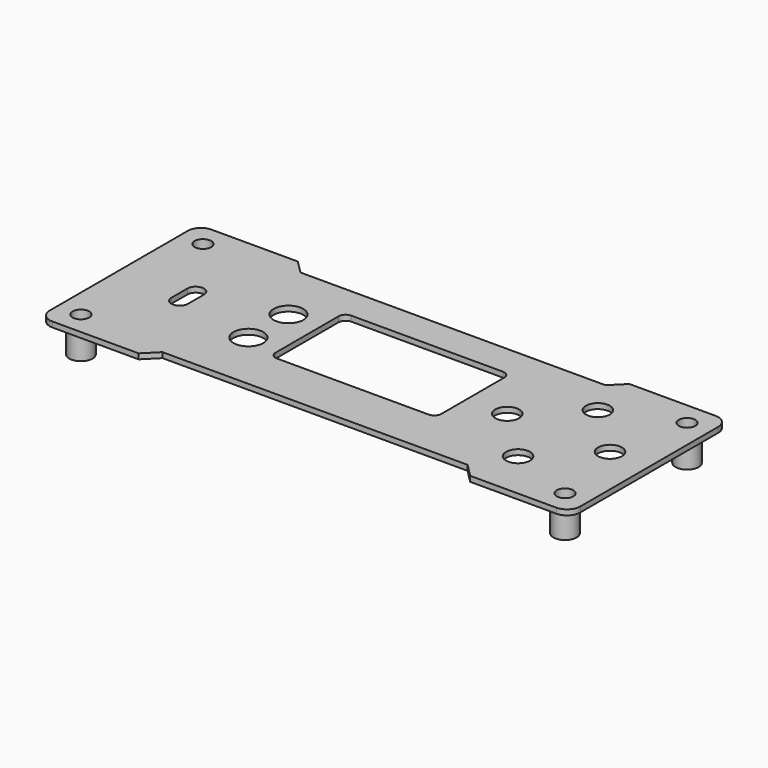
from build123d import *

# Parameters (mm, degrees)
PAD_DEPTH       = 0.8
POCKET_DEPTH    = 0.801
POCKET001_DEPTH = 0.801
SKETCH002_R     = 2.25
POCKET002_DEPTH = 0.801
SKETCH003_R     = 1.8
POCKET003_DEPTH = 0.801
SKETCH004_R     = 1.75
PAD001_DEPTH    = 4.5
SKETCH005_R     = 1.25
POCKET004_DEPTH = 5.301


with BuildPart() as part:
    # PCB_Sketch_76c7 → Pad (new body)
    with BuildSketch(Plane.XY):
        with BuildLine():
            Line((80, 28), (80, 2))
            ThreePointArc((80, 2), (79.414214, 0.585786), (78, 0))
            Line((78, 0), (65, 0))
            Line((65, 0), (63, 2))
            Line((63, 2), (17, 2))
            Line((17, 2), (15, 0))
            Line((15, 0), (2, 0))
            ThreePointArc((2, 0), (0.585786, 0.585786), (0, 2))
            Line((0, 2), (0, 28))
            ThreePointArc((0, 28), (0.585786, 29.414214), (2, 30))
            Line((2, 30), (15, 30))
            Line((17, 28), (15, 30))
            Line((63, 28), (17, 28))
            Line((63, 28), (65, 30))
            Line((65, 30), (78, 30))
            ThreePointArc((78, 30), (79.414214, 29.414214), (80, 28))
        make_face()
    extrude(amount=PAD_DEPTH)

    # Sketch (on Face18 of Pad) → Pocket (cut, through all)
    with BuildSketch(Plane.XY.offset(0.8)):
        with BuildLine():
            ThreePointArc((28.54066, 23.15), (27.79066, 22.83934), (27.48, 22.08934))
            Line((27.48, 10.21066), (27.48, 22.08934))
            ThreePointArc((27.48, 10.21066), (27.79066, 9.46066), (28.54066, 9.15))
            Line((51.41934, 9.15), (28.54066, 9.15))
            ThreePointArc((51.41934, 9.15), (52.16934, 9.46066), (52.48, 10.21066))
            Line((52.48, 22.08934), (52.48, 10.21066))
            ThreePointArc((52.48, 22.08934), (52.16934, 22.83934), (51.41934, 23.15))
            Line((28.54066, 23.15), (51.41934, 23.15))
        make_face()
    extrude(amount=-POCKET_DEPTH, mode=Mode.SUBTRACT)

    # Sketch001 (on Face5 of Pocket) → Pocket001 (cut, through all)
    with BuildSketch(Plane.XY.offset(0.8)):
        with BuildLine():
            ThreePointArc((11.65, 16.5), (10.4, 17.75), (9.15, 16.5))
            Line((9.15, 16.5), (9.15, 13.5))
            ThreePointArc((9.15, 13.5), (10.4, 12.25), (11.65, 13.5))
            Line((11.65, 13.5), (11.65, 16.5))
        make_face()
    extrude(amount=-POCKET001_DEPTH, mode=Mode.SUBTRACT)

    # Sketch002 (on Face5 of Pocket001) → Pocket002 (cut, through all)
    with BuildSketch(Plane.XY.offset(0.8)):
        with Locations((22.575, 18.77)):
            Circle(SKETCH002_R)
        with Locations((22.575, 11.22)):
            Circle(SKETCH002_R)
    extrude(amount=-POCKET002_DEPTH, mode=Mode.SUBTRACT)

    # Sketch003 (on Face5 of Pocket002) → Pocket003 (cut, through all)
    with BuildSketch(Plane.XY.offset(0.8)):
        with Locations((66.275, 22.47)):
            Circle(SKETCH003_R)
        with Locations((74.025, 15.07)):
            Circle(SKETCH003_R)
        with Locations((58.525, 15.07)):
            Circle(SKETCH003_R)
        with Locations((66.275, 7.42)):
            Circle(SKETCH003_R)
    extrude(amount=-POCKET003_DEPTH, mode=Mode.SUBTRACT)

    # Sketch004 (on Face4 of Pocket003) → Pad001 (join)
    with BuildSketch(Plane(origin=(0, 0, 0), x_dir=(1, 0, 0), z_dir=(0, 0, -1))):
        with Locations((3.5, -26.5)):
            Circle(SKETCH004_R)
        with Locations((3.5, -3.5)):
            Circle(SKETCH004_R)
        with Locations((76.5, -3.5)):
            Circle(SKETCH004_R)
        with Locations((76.5, -26.5)):
            Circle(SKETCH004_R)
    extrude(amount=PAD001_DEPTH)

    # Sketch005 (on Face5 of Pad001) → Pocket004 (cut, through all)
    with BuildSketch(Plane.XY.offset(0.8)):
        with Locations((3.5, 26.5)):
            Circle(SKETCH005_R)
        with Locations((3.5, 3.5)):
            Circle(SKETCH005_R)
        with Locations((76.5, 26.5)):
            Circle(SKETCH005_R)
        with Locations((76.5, 3.5)):
            Circle(SKETCH005_R)
    extrude(amount=-POCKET004_DEPTH, mode=Mode.SUBTRACT)


solid = part.part
